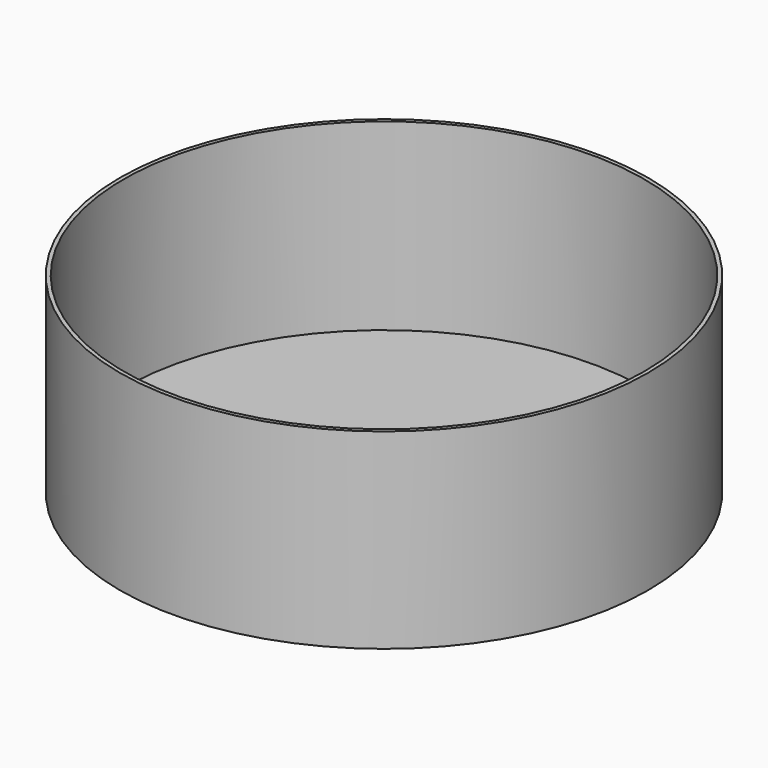
from build123d import *

# Parameters (mm, degrees)
F0_R     = 219.075
F0_R_2   = 215.9
F1_DEPTH = 152.4
F2_R     = 219.075
F3_DEPTH = 6.35
F4_R     = 9.525
F5_DEPTH = 25.4


with BuildPart() as f1:
    # F0 (on Top) → F1 (new body)
    with BuildSketch(Plane.XY):
        Circle(F0_R)
        Circle(F0_R_2, mode=Mode.SUBTRACT)
    extrude(amount=F1_DEPTH)

    # F2 (on Top) → F3 (join)
    with BuildSketch(Plane.XY):
        Circle(F2_R)
    extrude(amount=-F3_DEPTH)

    # F4 (on face) → F5 (cut)
    with BuildSketch(Plane(origin=(0, 0, -6.35), x_dir=(1, 0, 0), z_dir=(0, 0, -1))):
        Circle(F4_R)
    extrude(amount=-F5_DEPTH, mode=Mode.SUBTRACT)


solid = f1.part
